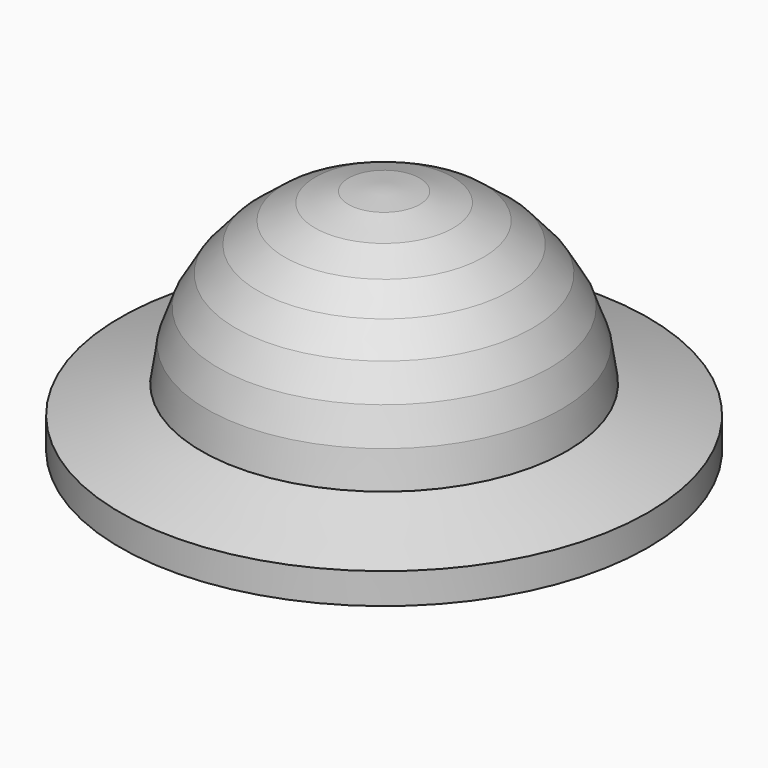
from build123d import *


with BuildPart() as f1:
    # F0 (on Front) → F1 (revolve)
    with BuildSketch(Plane.XZ):
        Polygon((0.96445, -3.71055), (4.23555, -3.71055), (4.23555, -2.72235), (1.62815, -1.83525), (1.62785, -1.83495), (1.45565, -0.70915), (1.08075, 0.33565), (0.52425, 1.27815), (-0.19245, 2.09705), (-1.04805, 2.77105), (-2.02135, 3.27875), (-3.09095, 3.59905), (-4.23555, 3.71055), (-4.23555, 1.38945), (-1.73555, 1.38945), (-1.73555, -0.61055), (-1.13555, -0.61055), (-1.13555, 1.12035), (-1.12305, 1.20805), (-1.08725, 1.28555), (-1.03045, 1.34925), (-0.95485, 1.39555), (-0.86945, 1.41905), (-0.78415, 1.41705), (-0.70315, 1.39025), (-0.63055, 1.33945), (-0.31415, 1.01465), (-0.02845, 0.65655), (0.22485, 0.26025), (0.44425, -0.17945), (0.62805, -0.66755), (0.77485, -1.20905), (0.88295, -1.80915), (0.95085, -2.47275), (0.96445, -2.71055), align=None)
        Polygon((-1.13555, -0.61055), (0.62805, -0.66755), (0.44425, -0.17945), (0.22485, 0.26025), (-0.02845, 0.65655), (-0.31415, 1.01465), (-0.63055, 1.33945), (-0.70315, 1.39025), (-0.78415, 1.41705), (-0.86945, 1.41905), (-0.95485, 1.39555), (-1.03045, 1.34925), (-1.08725, 1.28555), (-1.12305, 1.20805), (-1.13555, 1.12035), align=None)
    revolve(axis=Axis((-4.23555, 0, 2.55), (0, 0, -1)))


solid = f1.part
